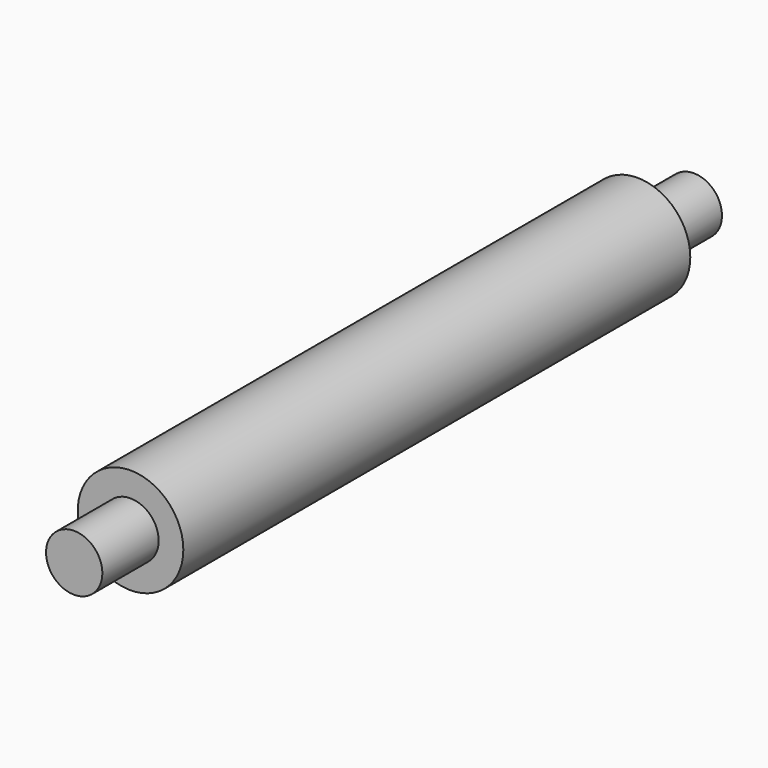
from build123d import *

# Parameters (mm, degrees)
F0_R     = 19.05
F1_DEPTH = 114.3
F2_R     = 10.16
F3_DEPTH = 25.4
F4_R     = 10.16
F5_DEPTH = 25.4


with BuildPart() as f1:
    # F0 (on Front) → F1 (new body, symmetric)
    with BuildSketch(Plane.XZ):
        Circle(F0_R)
    extrude(amount=F1_DEPTH, both=True)

    # F2 (on face) → F3 (join)
    with BuildSketch(Plane(origin=(0, 114.3, 0), x_dir=(-1, 0, 0), z_dir=(0, 1, 0))):
        Circle(F2_R)
    extrude(amount=F3_DEPTH)

    # F4 (on face) → F5 (join)
    with BuildSketch(Plane.XZ.offset(114.3)):
        Circle(F4_R)
    extrude(amount=F5_DEPTH)


solid = f1.part
